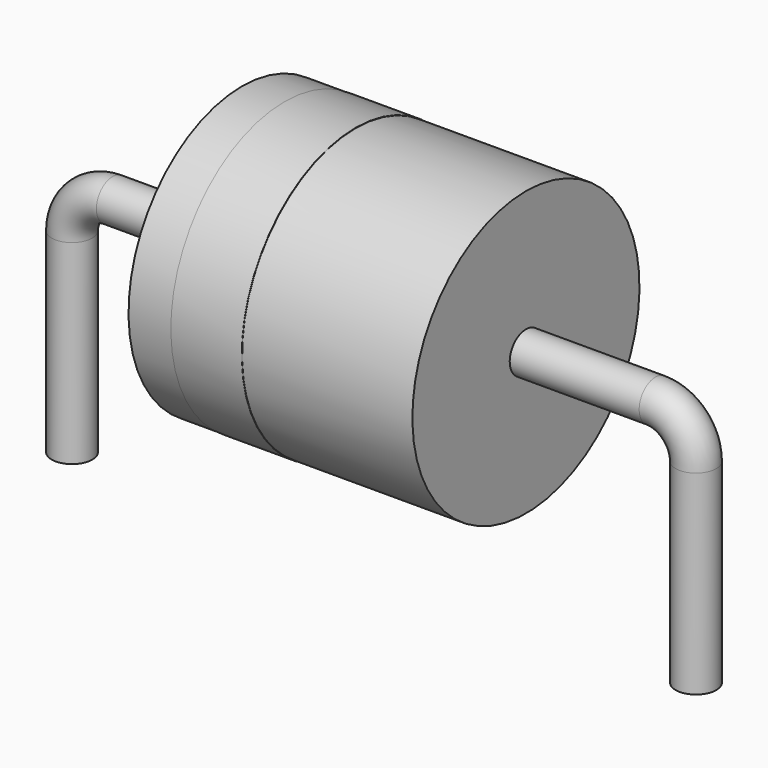
from build123d import *

# Parameters (mm, degrees)
SKETCH002_W = 9.1
SKETCH002_H = 4.55
SKETCH003_W = 2.275
SKETCH003_H = 0.02
SKETCH_R    = 0.65


with BuildPart() as revolution:
    # Sketch002 → Revolution (revolve)
    with BuildSketch(Plane.XZ):
        with Locations((10, 7.325)):
            Rectangle(SKETCH002_W, SKETCH002_H)
    revolve(axis=Axis((5.45, 0, 5.05), (1, 0, 0)))


with BuildPart() as revolution001:
    # Sketch003 → Revolution001 (revolve)
    with BuildSketch(Plane.XZ):
        with Locations((7.9525, 9.6)):
            Rectangle(SKETCH003_W, SKETCH003_H)
    revolve(axis=Axis((0, 0, 5.05), (1, 0, 0)))


with BuildPart() as sweep_body:
    # Sweep: sweep along a path in Sketch001
    with BuildLine(Plane.XZ) as sweep_path:
        Line((0, -2.5), (0, 3.75))
        ThreePointArc((0, 3.75), (0.380761, 4.669239), (1.3, 5.05))
        Line((1.3, 5.05), (18.7, 5.05))
        ThreePointArc((18.7, 5.05), (19.619239, 4.669239), (20, 3.75))
        Line((20, 3.75), (20, -2.5))
    # Sketch → Sweep (sweep)
    with BuildSketch(Plane.XY.offset(-2)):
        Circle(SKETCH_R)
    sweep(path=sweep_path.line)


solid = Compound([revolution.part, revolution001.part, sweep_body.part])
